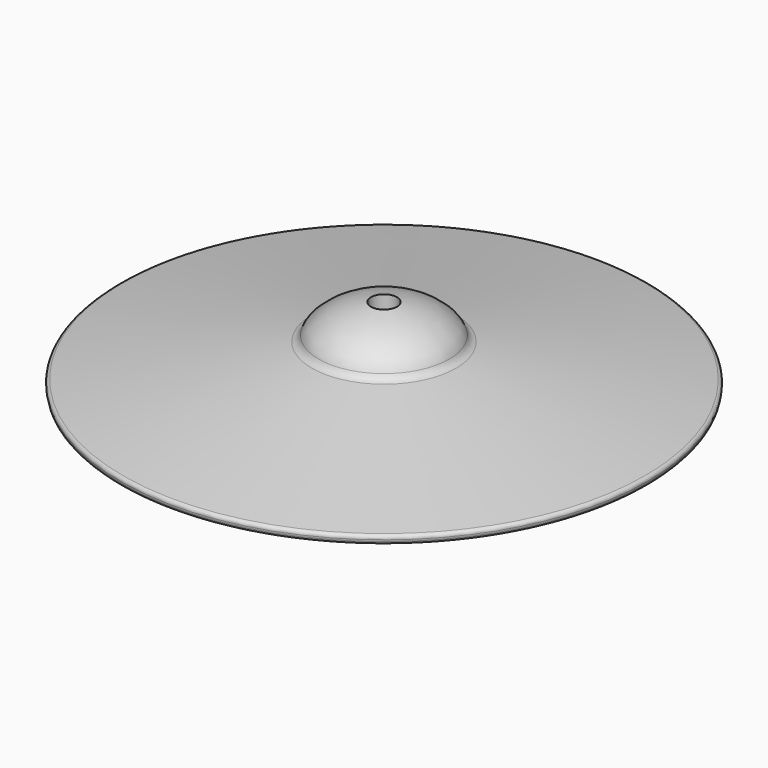
from build123d import *

# Parameters (mm, degrees)
F2_R          = 7.5
F3_DEPTH      = 20.038504
F3_DEPTH_BACK = 24.963496
F4_R          = 2
F5_R          = 5


with BuildPart() as f1:
    # F0 (on Front) → F1 (revolve)
    with BuildSketch(Plane.XZ):
        with BuildLine():
            Line((152.5, -20.037504), (38.125, 0))
            add(Edge.make_bspline(
                [(0, 20.037504), (19.0625, 20.037504), (38.125, 10.018752), (38.125, 0)],
                knots=[0, 0, 0, 0, 43.06991, 43.06991, 43.06991, 43.06991], degree=3))
            Line((0, 20.037504), (0, 1.603018))
            Line((0, 1.603018), (151.637184, -24.962496))
            Line((151.637184, -24.962496), (152.5, -20.037504))
        make_face()
    revolve(axis=Axis((0, 0, -2.462496), (0, 0, -1)))

    # F2 (on Top) → F3 (cut, two sides)
    with BuildSketch(Plane.XY) as f3_sk:
        Circle(F2_R)
    extrude(amount=F3_DEPTH, mode=Mode.SUBTRACT)
    extrude(f3_sk.sketch, amount=-F3_DEPTH_BACK, mode=Mode.SUBTRACT)

    # F4
    f4_edges = [f1.edges().sort_by_distance(p)[0] for p in [
        (-151.637184, 0, -24.962496),
        (-152.5, 0, -20.037504),
    ]]
    fillet(f4_edges, radius=F4_R)

    # F5
    f5_edges = [f1.edges().sort_by_distance(p)[0] for p in [
        (-38.125, 0, 0),
    ]]
    fillet(f5_edges, radius=F5_R)


solid = f1.part
